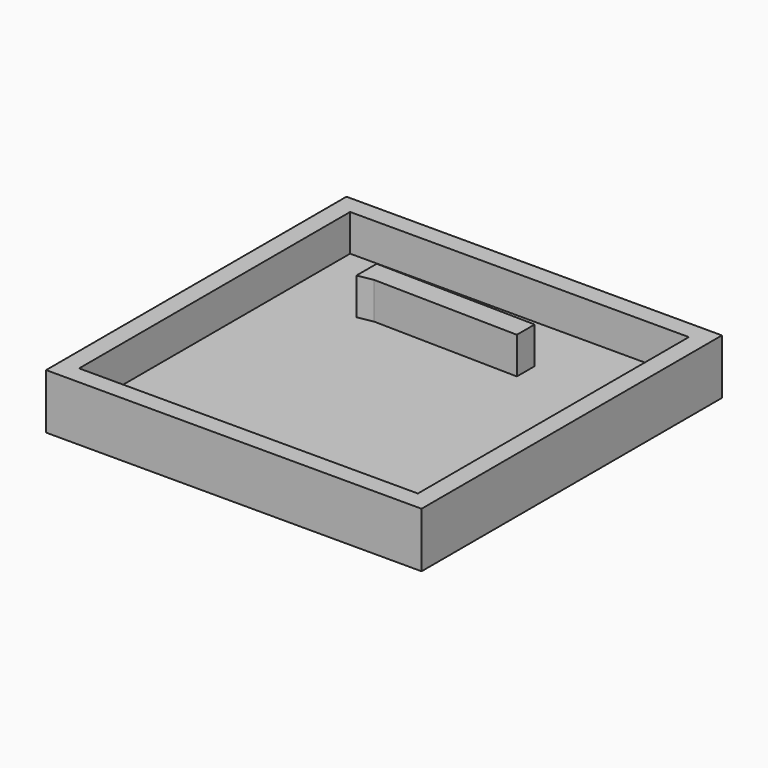
from build123d import *

# Parameters (mm, degrees)
F0_W     = 51.944476
F0_H     = 51.944479
F1_DEPTH = 7.62
F2_T     = -2.54
F5_DEPTH = 5.08


with BuildPart() as f1:
    # F0 (on Top) → F1 (new body)
    with BuildSketch(Plane.XY):
        with Locations((25.972238, -25.97224)):
            Rectangle(F0_W, F0_H)
    extrude(amount=F1_DEPTH)

    # F2
    f2_openings = [f1.faces().sort_by_distance(p)[0] for p in [
        (25.972238, -25.97224, 7.62),
    ]]
    offset(amount=F2_T, openings=f2_openings)

    # F3 (on face) → F5 (join)
    with BuildSketch(Plane.XY.offset(2.54)):
        Polygon((12.361643, -13.724343), (14.503031, -13.335001), (34.554198, -13.724343), (34.554198, -10.651178), (12.361643, -10.220256), align=None)
    extrude(amount=F5_DEPTH)


solid = f1.part
